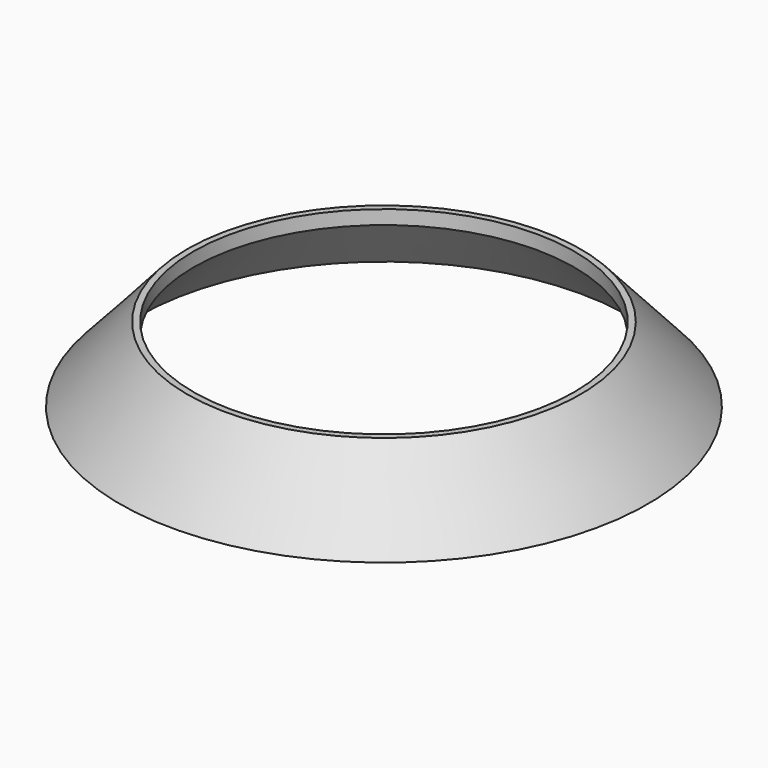
from build123d import *

# Parameters (mm, degrees)
F2_T     = -2.5
F3_DEPTH = 25
F4_DEPTH = 25
F5_DEPTH = 27.501


with BuildPart() as f1:
    # F0 (on Front) → F1 (revolve)
    with BuildSketch(Plane.XZ):
        Polygon((0, 0), (0, 13.29), (-35, 13.29), (-46.9663697487, 0), align=None)
    revolve(axis=Axis((0, 0, 32.7267305849), (0, 0, 1)))

    # F2
    f2_openings = [f1.faces().sort_by_distance(p)[0] for p in [
        (0, 0, 0),
    ]]
    offset(amount=F2_T, openings=f2_openings)

    # F3 (add): a face of the model
    f3_faces = [f1.faces().sort_by_distance(p)[0] for p in [
        (0, 0, 10.79),
    ]]
    extrude(f3_faces, amount=F3_DEPTH)

    # F4 (add): a face of the model
    f4_faces = [f1.faces().sort_by_distance(p)[0] for p in [
        (0, 0, -14.21),
    ]]
    extrude(f4_faces, amount=-F4_DEPTH)

    # F5 (cut, through all): a face of the model
    f5_faces = [f1.faces().sort_by_distance(p)[0] for p in [
        (0, 0, -14.21),
    ]]
    extrude(f5_faces, amount=-F5_DEPTH, mode=Mode.SUBTRACT)


solid = f1.part
